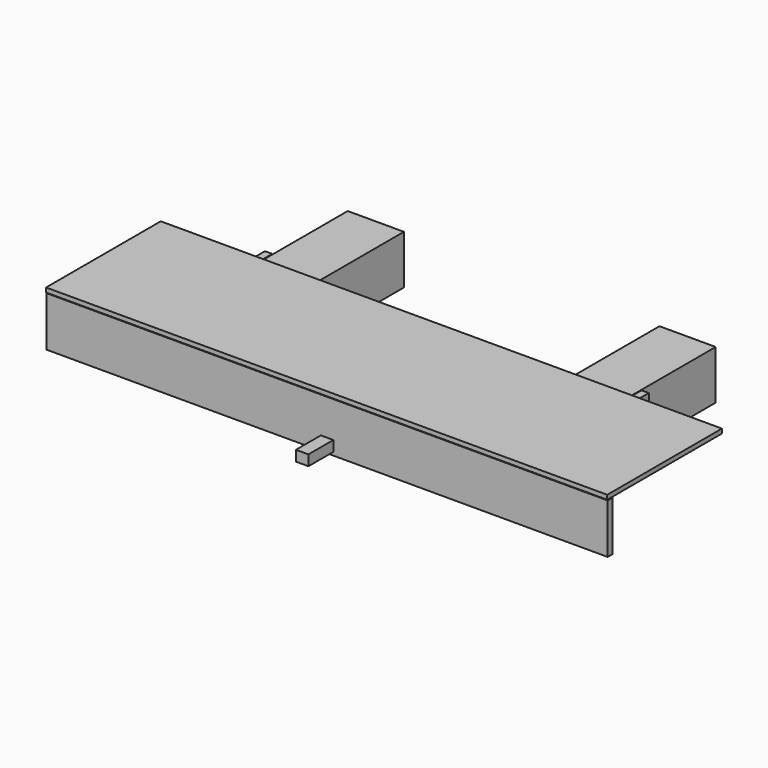
from build123d import *

# Parameters (mm, degrees)
F0_W      = 9.013751108
F0_H      = 7.866161422
F1_DEPTH  = 25
F2_W      = 1.1650789529
F2_H      = 7.8226653859
F3_DEPTH  = 15
F4_DEPTH  = 10
F5_DEPTH  = 10
F6_W      = 0.9330576286
F6_H      = 7.977636531
F7_DEPTH  = 45
F8_DEPTH  = 45
F9_W      = 22.9889024049
F9_H      = 0.7061436772
F10_DEPTH = 45
F11_DEPTH = 45
F13_DEPTH = 1
F14_W     = 0.3597940085
F14_H     = 7.8240241855
F15_DEPTH = 30
F16_DEPTH = 30
F18_W     = 2.0044790581
F18_H     = 1.6795026604
F19_DEPTH = 15
F20_DEPTH = 5


with BuildPart() as f1:
    # F0 (on Front) → F1 (new body)
    with BuildSketch(Plane.XZ):
        with Locations((-25, 0)):
            Rectangle(F0_W, F0_H)
    extrude(amount=-F1_DEPTH)


with BuildPart() as f1b:
    # F0 (on Front) → F1, piece 2 (new body)
    with BuildSketch(Plane.XZ):
        with Locations((25, 0)):
            Rectangle(F0_W, F0_H)
    extrude(amount=-F1_DEPTH)


with BuildPart() as f3:
    # F2 (on Front) → F3 (new body)
    with BuildSketch(Plane.XZ):
        with Locations((-30.1997521892, 0.0340505503)):
            Rectangle(F2_W, F2_H)
    extrude(amount=F3_DEPTH)

    # F4 (add): a face of the model
    f4_faces = [f3.faces().sort_by_distance(p)[0] for p in [
        (-30.1997521892, 0, 0.0340505503),
    ]]
    extrude(f4_faces, amount=F4_DEPTH)


with BuildPart() as f3b:
    # F2 (on Front) → F3, piece 2 (new body)
    with BuildSketch(Plane.XZ):
        with Locations((30.1997521892, 0.0340505503)):
            Rectangle(F2_W, F2_H)
    extrude(amount=F3_DEPTH)

    # F5 (add): a face of the model
    f5_faces = [f3b.faces().sort_by_distance(p)[0] for p in [
        (30.1997521892, 0, 0.0340505503),
    ]]
    extrude(f5_faces, amount=F5_DEPTH)


with BuildPart() as f7:
    # F6 (on Right) → F7 (new body)
    with BuildSketch(Plane.YZ):
        with Locations((-15.5513403006, -0.0170278363)):
            Rectangle(F6_W, F6_H)
    extrude(amount=F7_DEPTH)

    # F8 (add): a face of the model
    f8_faces = [f7.faces().sort_by_distance(p)[0] for p in [
        (0, -15.5513403006, -0.0170278363),
    ]]
    extrude(f8_faces, amount=F8_DEPTH)


with BuildPart() as f10:
    # F9 (on Right) → F10 (new body)
    with BuildSketch(Plane.YZ):
        with Locations((-4.6098036692, 4.4590970501)):
            Rectangle(F9_W, F9_H)
    extrude(amount=F10_DEPTH)

    # F11 (add): a face of the model
    f11_faces = [f10.faces().sort_by_distance(p)[0] for p in [
        (0, -4.6098036692, 4.4590970501),
    ]]
    extrude(f11_faces, amount=F11_DEPTH)


with BuildPart() as f13:
    # F12 (on face) → F13 (new body)
    with BuildSketch(Plane(origin=(0, 0, -3.8772821426), x_dir=(1, 0, 0), z_dir=(0, 0, -1))):
        Polygon((-18.57563667, 15), (-29.6172127128, 15), (-29.6172127128, 7.8648822382), align=None)
    extrude(amount=-F13_DEPTH)


with BuildPart() as f13b:
    # F12 (on face) → F13, piece 2 (new body)
    with BuildSketch(Plane(origin=(0, 0, -3.8772821426), x_dir=(1, 0, 0), z_dir=(0, 0, -1))):
        Polygon((18.57563667, 15), (29.6172127128, 7.8648822382), (29.6172127128, 15), align=None)
    extrude(amount=-F13_DEPTH)


with BuildPart() as f15:
    # F14 (on Right) → F15 (new body)
    with BuildSketch(Plane.YZ):
        Rectangle(F14_W, F14_H)
    extrude(amount=F15_DEPTH)


with BuildPart() as f16:
    # F16 (new): a face of the model
    f16_faces = [f15.part.faces().sort_by_distance(p)[0] for p in [
        (0, 0, 0),
    ]]
    extrude(f16_faces, amount=F16_DEPTH)


with BuildPart() as f16_1:
    # F17: moved
    add(f16.part.moved(Location((0, -5, 0))))


with BuildPart() as f15_1:
    # F17: moved
    add(f15.part.moved(Location((0, -5, 0))))


with BuildPart() as f19:
    # F18 (on face) → F19 (new body)
    with BuildSketch(Plane.XZ.offset(16.0178691149)):
        with Locations((0, -2.6366210077)):
            Rectangle(F18_W, F18_H)
    extrude(amount=-F19_DEPTH)


with BuildPart() as f20:
    # F20 (new): a face of the model
    f20_faces = [f19.part.faces().sort_by_distance(p)[0] for p in [
        (0, -16.0178691149, -2.6366210077),
    ]]
    extrude(f20_faces, amount=F20_DEPTH)


solid = Compound([f1.part, f1b.part, f3.part, f3b.part, f7.part, f10.part, f13.part, f13b.part, f16_1.part, f15_1.part, f19.part, f20.part])
